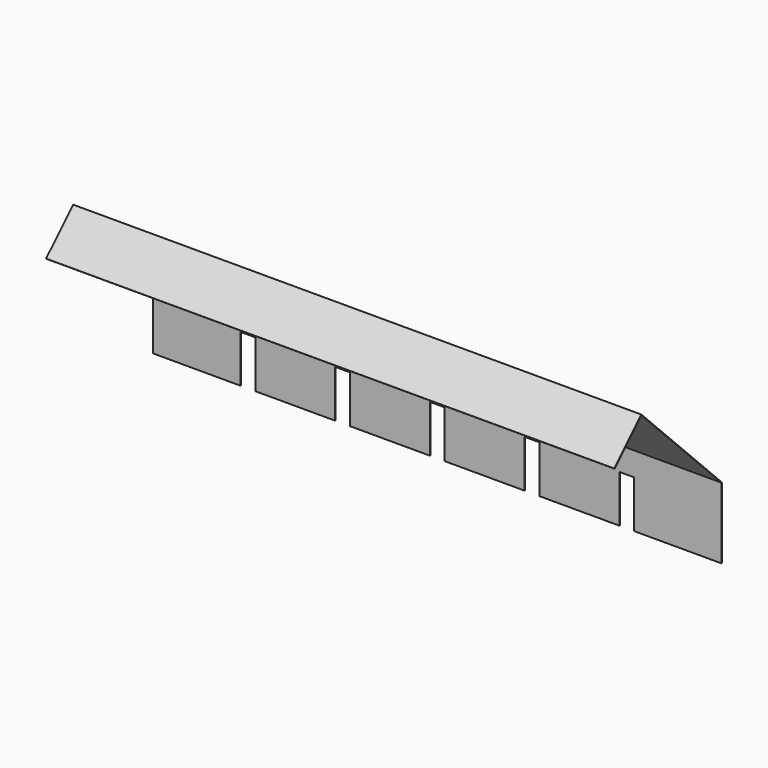
from build123d import *

# Parameters (mm, degrees)
F1_DEPTH = 0.3175
F3_DEPTH = 304.8
F5_DEPTH = 304.8


with BuildPart() as f1:
    # F0 (on Front) → F1 (new body)
    with BuildSketch(Plane.XZ):
        Polygon((105.5624, -50.8), (152.4, -50.8), (152.4, -12.7), (-152.4, -12.7), (-152.4, -50.8), (-105.56875, -50.8), (-105.56875, -25.4), (-97.6376, -25.4), (-97.6376, -50.8), (-54.7624, -50.8), (-54.7624, -25.4), (-46.83125, -25.4), (-46.83125, -50.8), (-3.9624, -50.8), (-3.9624, -25.4), (3.9624, -25.4), (3.9624, -50.8), (46.8376, -50.8), (46.8376, -25.4), (54.7624, -25.4), (54.7624, -50.8), (97.6376, -50.8), (97.6376, -25.4), (105.5624, -25.4), align=None)
    extrude(amount=F1_DEPTH)

    # F2 (on face) → F3 (join)
    with BuildSketch(Plane(origin=(-152.4, 0, 0), x_dir=(0, -1, 0), z_dir=(-1, 0, 0))):
        Polygon((0, -12.7), (0.3175, -12.7), (54.199037, 41.181537), (54.040287, 41.340287), align=None)
    extrude(amount=-F3_DEPTH)

    # F4 (on face) → F5 (join)
    with BuildSketch(Plane(origin=(-152.4, 0, 0), x_dir=(0, -1, 0), z_dir=(-1, 0, 0))):
        Polygon((72.159549, 23.221024), (54.199037, 41.181537), (53.97453, 40.95703), (71.935043, 22.996518), align=None)
    extrude(amount=-F5_DEPTH)


solid = f1.part
